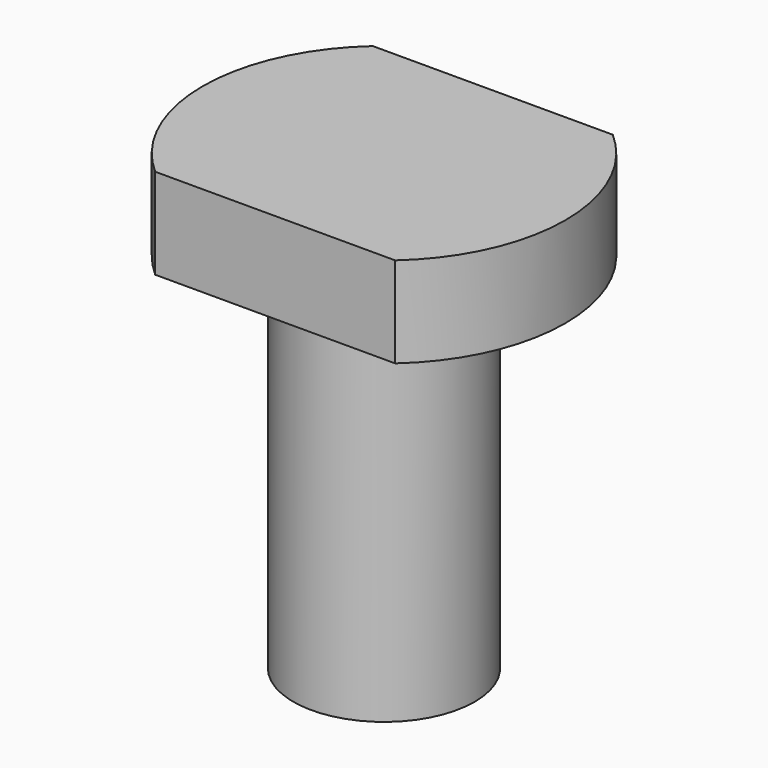
from build123d import *

# Parameters (mm, degrees)
PAD_DEPTH    = 10
SKETCH001_R  = 10
PAD001_DEPTH = 40


with BuildPart() as part:
    # Sketch → Pad (new body)
    with BuildSketch(Plane.XY):
        with BuildLine():
            ThreePointArc((13.228757, -15), (20, 0), (13.228757, 15))
            Line((-13.228757, 15), (13.228757, 15))
            ThreePointArc((-13.228757, 15), (-20, 0), (-13.228757, -15))
            Line((-13.228757, -15), (13.228757, -15))
        make_face()
    extrude(amount=PAD_DEPTH)

    # Sketch001 → Pad001 (join)
    with BuildSketch(Plane.XY):
        Circle(SKETCH001_R)
    extrude(amount=-PAD001_DEPTH)


solid = part.part
